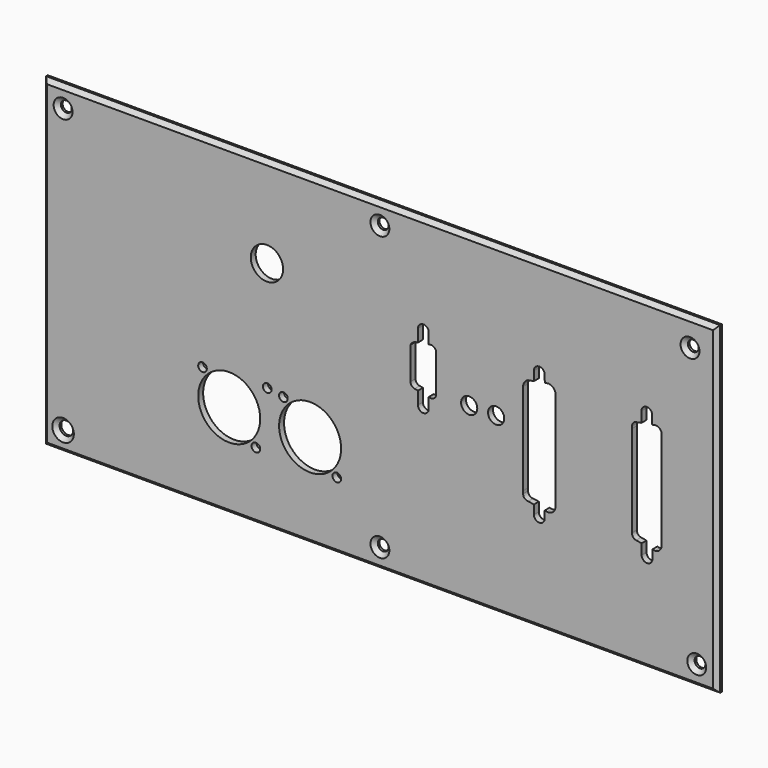
from build123d import *

# Parameters (mm, degrees)
F0_W     = 250
F0_H     = 120
F0_R     = 2.5
F0_R_2   = 1.6
F0_R_3   = 11.5
F0_R_4   = 2
F0_R_5   = 6
F0_R_6   = 3
F1_DEPTH = 2.29
F2_SIZE  = 1.5
F3_SIZE  = 1.5


with BuildPart() as f1:
    # F0 (on Front) → F1 (new body)
    with BuildSketch(Plane.XZ):
        with Locations((7.931469, 14.123547)):
            Rectangle(F0_W, F0_H)
        with Locations((-109.568531, -38.376453)):
            Circle(F0_R, mode=Mode.SUBTRACT)
        with Locations((-38.056882, -20.8)):
            Circle(F0_R_2, mode=Mode.SUBTRACT)
        with Locations((-8.056882, -20.8)):
            Circle(F0_R_2, mode=Mode.SUBTRACT)
        with Locations((-57.856882, -1)):
            Circle(F0_R_2, mode=Mode.SUBTRACT)
        with Locations((-47.956882, -10.9)):
            Circle(F0_R_3, mode=Mode.SUBTRACT)
        with Locations((-27.856882, -1)):
            Circle(F0_R_2, mode=Mode.SUBTRACT)
        with Locations((-17.956882, -10.9)):
            Circle(F0_R_3, mode=Mode.SUBTRACT)
        with Locations((-33.856882, 0)):
            Circle(F0_R_2, mode=Mode.SUBTRACT)
        with Locations((7.931469, -38.376453)):
            Circle(F0_R_4, mode=Mode.SUBTRACT)
        with Locations((125.431469, -38.376453)):
            Circle(F0_R_4, mode=Mode.SUBTRACT)
        with Locations((-33.969466, 40.677104)):
            Circle(F0_R_5, mode=Mode.SUBTRACT)
        with Locations((-109.568531, 66.623547)):
            Circle(F0_R_4, mode=Mode.SUBTRACT)
        with Locations((7.931, 66.623547)):
            Circle(F0_R_4, mode=Mode.SUBTRACT)
        with BuildLine():
            ThreePointArc((26.514029, 33.811025), (27.948503, 33.513178), (28.784517, 32.310053))
            Line((28.784517, 32.310053), (28.784517, 17.936876))
            ThreePointArc((28.784517, 17.936876), (27.93903, 16.743219), (26.503268, 16.463479))
            Line((26.503268, 16.463479), (26.034518, 16.552957))
            Line((26.034518, 16.552957), (26.034518, 12.623465))
            ThreePointArc((26.034518, 12.623465), (24.034518, 10.623465), (22.034518, 12.623465))
            Line((22.034518, 12.623465), (22.034518, 17.316499))
            Line((22.034518, 17.316499), (20.786522, 17.554723))
            ThreePointArc((20.786522, 17.554723), (19.704803, 18.196975), (19.284518, 19.38271))
            Line((19.284518, 19.38271), (19.284518, 31.38271))
            ThreePointArc((19.284518, 31.38271), (20.085689, 32.371468), (21.251265, 32.882302))
            Line((21.251265, 32.882302), (22.034518, 33.020524))
            Line((22.034518, 33.020524), (22.034518, 37.623465))
            ThreePointArc((22.034518, 37.623465), (24.034518, 39.623465), (26.034518, 37.623465))
            Line((26.034518, 37.623465), (26.034518, 33.726406))
            Line((26.034518, 33.726406), (26.514029, 33.811025))
        make_face(mode=Mode.SUBTRACT)
        with Locations((41.034031, 18.623465)):
            Circle(F0_R_6, mode=Mode.SUBTRACT)
        with Locations((51.034031, 18.623465)):
            Circle(F0_R_6, mode=Mode.SUBTRACT)
        with BuildLine():
            ThreePointArc((69.034518, -9.181223), (67.034518, -11.181223), (65.034518, -9.181223))
            Line((65.034518, -9.181223), (65.034518, -5.865349))
            Line((65.034518, -5.865349), (62.965224, -5.522281))
            ThreePointArc((62.965224, -5.522281), (61.605659, -5.014743), (61.034518, -3.680648))
            Line((61.034518, -3.680648), (61.034031, -2.680648))
            Line((61.034031, -2.680648), (61.034031, 31.319352))
            ThreePointArc((61.034031, 31.319352), (61.537051, 32.945268), (62.870351, 34.00307))
            Line((62.870351, 34.00307), (65.034705, 34.40553))
            Line((65.034705, 34.40553), (65.034705, 37.791433))
            ThreePointArc((65.034705, 37.791433), (67.007175, 39.81859), (69.034331, 37.846121))
            Line((69.034331, 37.846121), (69.071112, 35.156098))
            Line((69.071112, 35.156098), (69.850695, 35.301061))
            ThreePointArc((69.850695, 35.301061), (72.196438, 34.615273), (73.034031, 32.319352))
            Line((73.034031, 32.319352), (73.034031, -3.680648))
            ThreePointArc((73.034031, -3.680648), (72.193258, -5.958464), (69.870961, -6.667181))
            Line((69.870961, -6.667181), (69.034518, -6.528508))
            Line((69.034518, -6.528508), (69.034518, -9.181223))
        make_face(mode=Mode.SUBTRACT)
        with BuildLine():
            ThreePointArc((108.977516, -9.376453), (106.977516, -11.376453), (104.977516, -9.376453))
            Line((104.977516, -9.376453), (104.977516, -6.064618))
            Line((104.977516, -6.064618), (104.977516, -5.563356))
            Line((104.977516, -5.563356), (102.935548, -5.224819))
            ThreePointArc((102.935548, -5.224819), (101.80013, -4.549377), (101.423057, -3.283197))
            Line((101.423057, -3.283197), (101.412046, 30.7371))
            Line((101.412046, 30.7371), (101.411781, 31.557157))
            ThreePointArc((101.411781, 31.557157), (101.773775, 32.651359), (102.717343, 33.313175))
            Line((102.717343, 33.313175), (104.889253, 33.717688))
            Line((104.889253, 33.717688), (104.889253, 34.211154))
            Line((104.889253, 34.211154), (104.889253, 37.623547))
            ThreePointArc((104.889253, 37.623547), (106.889253, 39.623547), (108.889253, 37.623547))
            Line((108.889253, 37.623547), (108.889253, 34.960369))
            Line((108.889253, 34.960369), (108.889253, 34.441248))
            Line((108.889253, 34.441248), (109.822674, 34.615095))
            ThreePointArc((109.822674, 34.615095), (111.757696, 34.035583), (112.411415, 32.124355))
            Line((112.411415, 32.124355), (112.423064, -3.875644))
            ThreePointArc((112.423064, -3.875644), (111.661619, -5.670743), (109.841285, -6.369719))
            Line((109.841285, -6.369719), (108.977516, -6.226515))
            Line((108.977516, -6.226515), (108.977516, -6.727777))
            Line((108.977516, -6.727777), (108.977516, -9.376453))
        make_face(mode=Mode.SUBTRACT)
        with Locations((122.931469, 64.123547)):
            Circle(F0_R_4, mode=Mode.SUBTRACT)
    extrude(amount=F1_DEPTH)

    # F2
    f2_edges = [f1.edges().sort_by_distance(p)[0] for p in [
        (-117.068531, -2.29, 14.123547),
        (7.931469, -2.29, -45.876453),
        (132.931469, -2.29, 14.123547),
        (7.931469, -2.29, 74.123547),
    ]]
    chamfer(f2_edges, length=F2_SIZE)

    # F3
    f3_edges = [f1.edges().sort_by_distance(p)[0] for p in [
        (-111.568531, -2.29, 66.623547),
        (5.931, -2.29, 66.623547),
        (120.931469, -2.29, 64.123547),
        (123.431469, -2.29, -38.376453),
        (5.931469, -2.29, -38.376453),
        (-112.068531, -2.29, -38.376453),
    ]]
    chamfer(f3_edges, length=F3_SIZE)


solid = f1.part
